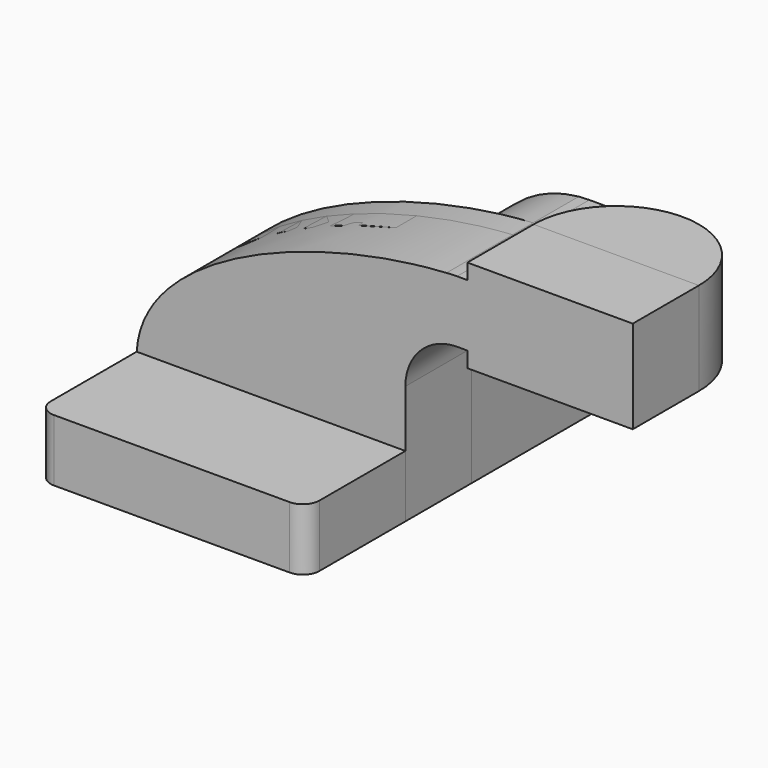
from build123d import *

# Parameters (mm, degrees)
F1_DEPTH = 63.5
F0_W     = 25.4
F0_H     = 19.05
F2_DEPTH = 25.4
F3_DEPTH = 7.9375
F5_R     = 5.08
F0_H_2   = 4.7498
F0_H_3   = 4.7752
F6_DEPTH = 25.4


with BuildPart() as f1:
    # F0 (on Front) → F1 (new body, symmetric)
    with BuildSketch(Plane.XZ):
        Polygon((22.225, 9.525), (-41.275, 9.525), (-41.275, -9.525), (41.275, -9.525), (41.275, 9.525), align=None)
    extrude(amount=F1_DEPTH, both=True)

    # F0 (on Front) → F2 (join, symmetric)
    with BuildSketch(Plane.XZ):
        with BuildLine():
            Line((22.225, 27.0002), (22.225, 9.525))
            Line((22.225, 9.525), (41.275, 9.525))
            Line((41.275, 9.525), (41.275, 27.0002))
            ThreePointArc((41.275, 27.0002), (45.9246798487, 38.2255201513), (57.15, 42.8752))
            Line((57.15, 42.8752), (60.325, 42.8752))
            Line((60.325, 42.8752), (60.325, 61.9252))
            Line((60.325, 61.9252), (57.15, 61.9252))
            add(Edge.make_bspline(
                [(53.8854342407, 61.7722898912), (54.9842067368, 61.8365871986), (56.0728453275, 61.8876096574), (57.15, 61.9252)],
                knots=[108.5245810491, 108.5245810491, 108.5245810491, 108.5245810491, 111.5045361635, 111.5045361635, 111.5045361635, 111.5045361635], degree=3))
            ThreePointArc((53.8854342407, 61.7722898912), (31.3258777096, 50.5133948686), (22.225, 27.0002))
        make_face()
        with Locations((73.025, 52.4002)):
            Rectangle(F0_W, F0_H)
    extrude(amount=F2_DEPTH, both=True)

    # F0 (on Front) → F3 (join, symmetric)
    with BuildSketch(Plane.XZ):
        with BuildLine():
            add(Edge.make_bspline(
                [(-41.275, 9.525), (-39.5856284224, 39.4828766469), (13.870125209, 59.4306981306), (53.8854342407, 61.7722898912)],
                knots=[0, 0, 0, 0, 108.5245810491, 108.5245810491, 108.5245810491, 108.5245810491], degree=3))
            Line((-41.275, 9.525), (22.225, 9.525))
            Line((22.225, 9.525), (22.225, 27.0002))
            ThreePointArc((22.225, 27.0002), (31.3258777096, 50.5133948686), (53.8854342407, 61.7722898912))
        make_face()
    extrude(amount=F3_DEPTH, both=True)

    # F0 (on Front) → F4 (revolve)
    with BuildSketch(Plane.XZ):
        Polygon((85.725, 66.675), (85.725, 61.9252), (85.725, 42.8752), (85.725, 38.1), (111.125, 38.1), (111.125, 66.675), align=None)
    revolve(axis=Axis((85.725, 0, 52.3875), (0, 0, 1)))

    # F5
    f5_edges = [f1.edges().sort_by_distance(p)[0] for p in [
        (41.275, -63.5, 0),
        (-41.275, -63.5, 0),
        (41.275, 63.5, 0),
        (-41.275, 63.5, 0),
    ]]
    fillet(f5_edges, radius=F5_R)


with BuildPart() as f6:
    # F0 (on Front) → F6 (new body)
    with BuildSketch(Plane.XZ):
        with BuildLine():
            add(Edge.make_bspline(
                [(-41.275, 9.525), (-39.5856284224, 39.4828766469), (13.870125209, 59.4306981306), (53.8854342407, 61.7722898912)],
                knots=[0, 0, 0, 0, 108.5245810491, 108.5245810491, 108.5245810491, 108.5245810491], degree=3))
            Line((-41.275, 9.525), (22.225, 9.525))
            Line((22.225, 9.525), (22.225, 27.0002))
            ThreePointArc((22.225, 27.0002), (31.3258777096, 50.5133948686), (53.8854342407, 61.7722898912))
        make_face()
        Polygon((22.225, 9.525), (-41.275, 9.525), (-41.275, -9.525), (41.275, -9.525), (41.275, 9.525), align=None)
        with BuildLine():
            Line((22.225, 27.0002), (22.225, 9.525))
            Line((22.225, 9.525), (41.275, 9.525))
            Line((41.275, 9.525), (41.275, 27.0002))
            ThreePointArc((41.275, 27.0002), (45.9246798487, 38.2255201513), (57.15, 42.8752))
            Line((57.15, 42.8752), (60.325, 42.8752))
            Line((60.325, 42.8752), (60.325, 61.9252))
            Line((60.325, 61.9252), (57.15, 61.9252))
            add(Edge.make_bspline(
                [(53.8854342407, 61.7722898912), (54.9842067368, 61.8365871986), (56.0728453275, 61.8876096574), (57.15, 61.9252)],
                knots=[108.5245810491, 108.5245810491, 108.5245810491, 108.5245810491, 111.5045361635, 111.5045361635, 111.5045361635, 111.5045361635], degree=3))
            ThreePointArc((53.8854342407, 61.7722898912), (31.3258777096, 50.5133948686), (22.225, 27.0002))
        make_face()
        with BuildLine():
            ThreePointArc((57.15, 61.9252), (55.5159275492, 61.8869515287), (53.8854342407, 61.7722898912))
            add(Edge.make_bspline(
                [(53.8854342407, 61.7722898912), (54.9842067368, 61.8365871986), (56.0728453275, 61.8876096574), (57.15, 61.9252)],
                knots=[108.5245810491, 108.5245810491, 108.5245810491, 108.5245810491, 111.5045361635, 111.5045361635, 111.5045361635, 111.5045361635], degree=3))
        make_face()
        with Locations((73.025, 52.4002)):
            Rectangle(F0_W, F0_H)
        with Locations((73.025, 64.3001)):
            Rectangle(F0_W, F0_H_2)
        with Locations((73.025, 40.4876)):
            Rectangle(F0_W, F0_H_3)
        Polygon((85.725, 66.675), (85.725, 61.9252), (85.725, 42.8752), (85.725, 38.1), (111.125, 38.1), (111.125, 66.675), align=None)
    extrude(amount=F6_DEPTH)


solid = Compound([f1.part, f6.part])
